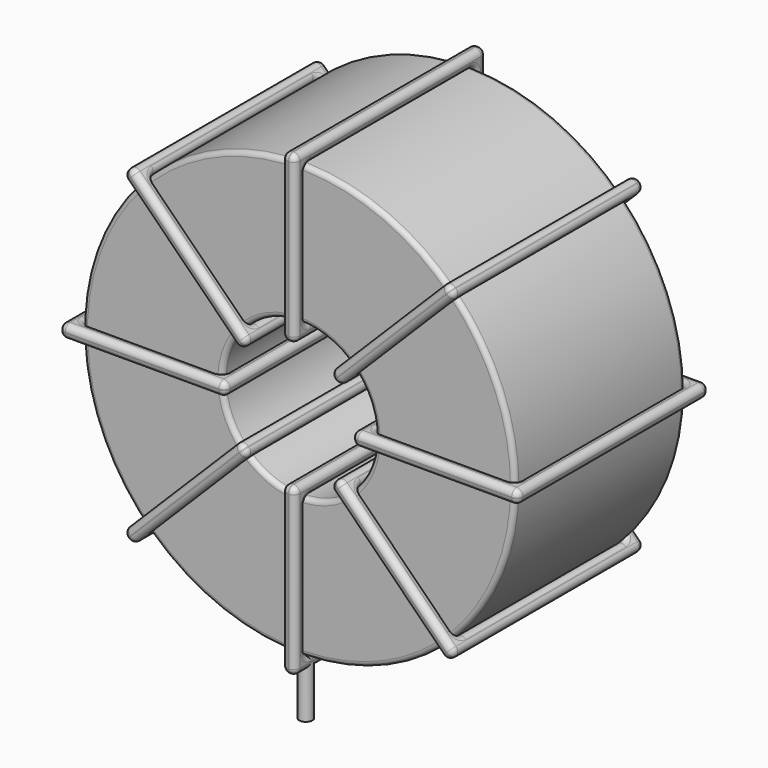
from build123d import *

# Parameters (mm, degrees)
SKETCH001_R       = 0.7
PAD001_DEPTH      = 1.4
PAD001_DEPTH_BACK = 4.9
SKETCH_R          = 23
SKETCH_R_2        = 8.133333
PAD_DEPTH         = 11.3
FILLET_R          = 0.5
SKETCH003_W       = 17.666667
SKETCH003_H       = 25.4
SKETCH003_W_2     = 14.866667
SKETCH003_H_2     = 22.6
PAD002_DEPTH      = 0.7
FILLET001_R       = 0.658
SKETCH004_W       = 17.666667
SKETCH004_H       = 25.4
SKETCH004_W_2     = 14.866667
SKETCH004_H_2     = 22.6
PAD003_DEPTH      = 0.7
FILLET002_R       = 0.658
SKETCH005_W       = 17.666667
SKETCH005_H       = 25.4
SKETCH005_W_2     = 14.866667
SKETCH005_H_2     = 22.6
PAD004_DEPTH      = 0.7
FILLET003_R       = 0.658
SKETCH006_W       = 17.666667
SKETCH006_H       = 25.4
SKETCH006_W_2     = 14.866667
SKETCH006_H_2     = 22.6
PAD005_DEPTH      = 0.7
FILLET004_R       = 0.658


with BuildPart() as pad001:
    # Sketch001 → Pad001 (new body, two sides)
    with BuildSketch(Plane.XY.offset(1.9)) as pad001_sk:
        Circle(SKETCH001_R)
        with Locations((0, -20.8)):
            Circle(SKETCH001_R)
    extrude(amount=PAD001_DEPTH)
    extrude(pad001_sk.sketch, amount=-PAD001_DEPTH_BACK)


with BuildPart() as fillet_body:
    # Sketch → Pad (new body, symmetric)
    with BuildSketch(Plane.XZ.offset(10.4)):
        with Locations((0, 26.3)):
            Circle(SKETCH_R)
        with Locations((0, 26.3)):
            Circle(SKETCH_R_2, mode=Mode.SUBTRACT)
    extrude(amount=PAD_DEPTH, both=True)

    # Fillet
    fillet_edges = [fillet_body.edges().sort_by_distance(p)[0] for p in [
        (-8.133333, -21.7, 26.3),
        (-23, -21.7, 26.3),
        (-23, 0.9, 26.3),
    ]]
    fillet(fillet_edges, radius=FILLET_R)


with BuildPart() as fillet001:
    # Sketch003 → Pad002 (new body, symmetric)
    with BuildSketch(Plane(origin=(0, 2.3, 26.3), x_dir=(1, 0, 0), z_dir=(0, 0, -1))):
        with Locations((-15.566667, 12.7)):
            Rectangle(SKETCH003_W, SKETCH003_H)
        with Locations((-15.566667, 12.7)):
            Rectangle(SKETCH003_W_2, SKETCH003_H_2, mode=Mode.SUBTRACT)
        with Locations((15.566667, 12.7)):
            Rectangle(SKETCH003_W, SKETCH003_H)
        with Locations((15.566667, 12.7)):
            Rectangle(SKETCH003_W_2, SKETCH003_H_2, mode=Mode.SUBTRACT)
    extrude(amount=PAD002_DEPTH, both=True)

    # Fillet001
    fillet001_edges = [fillet001.edges().sort_by_distance(p)[0] for p in [
        (-8.133333, -21.7, 26.3),
        (-8.133333, 0.9, 26.3),
        (-8.133333, -10.4, 27),
        (-8.133333, -10.4, 25.6),
        (-24.4, -23.1, 26.3),
        (-6.733333, -23.1, 26.3),
        (-15.566667, -23.1, 27),
        (-15.566667, -23.1, 25.6),
        (-6.733333, 2.3, 26.3),
        (-6.733333, -10.4, 27),
        (-6.733333, -10.4, 25.6),
        (8.133333, -21.7, 26.3),
        (23, -21.7, 26.3),
        (15.566667, -21.7, 27),
        (15.566667, -21.7, 25.6),
        (23, 0.9, 26.3),
        (23, -10.4, 27),
        (23, -10.4, 25.6),
        (6.733333, -23.1, 26.3),
        (24.4, -23.1, 26.3),
        (15.566667, -23.1, 27),
        (15.566667, -23.1, 25.6),
        (24.4, 2.3, 26.3),
        (24.4, -10.4, 27),
        (24.4, -10.4, 25.6),
        (-23, -21.7, 26.3),
        (-15.566667, -21.7, 27),
        (-15.566667, -21.7, 25.6),
        (8.133333, 0.9, 26.3),
        (8.133333, -10.4, 27),
        (8.133333, -10.4, 25.6),
        (15.566667, 0.9, 27),
        (15.566667, 0.9, 25.6),
        (6.733333, 2.3, 26.3),
        (15.566667, 2.3, 27),
        (15.566667, 2.3, 25.6),
        (6.733333, -10.4, 27),
        (6.733333, -10.4, 25.6),
        (-24.4, 2.3, 26.3),
        (-15.566667, 2.3, 27),
        (-15.566667, 2.3, 25.6),
        (-24.4, -10.4, 27),
        (-24.4, -10.4, 25.6),
        (-23, 0.9, 26.3),
        (-23, -10.4, 27),
        (-23, -10.4, 25.6),
        (-15.566667, 0.9, 27),
        (-15.566667, 0.9, 25.6),
    ]]
    fillet(fillet001_edges, radius=FILLET001_R)


with BuildPart() as fillet002:
    # Sketch004 → Pad003 (new body, symmetric)
    with BuildSketch(Plane(origin=(0, 2.3, 26.3), x_dir=(0.707108, 0, 0.707106), z_dir=(0.707106, 0, -0.707108))):
        with Locations((-15.566667, 12.7)):
            Rectangle(SKETCH004_W, SKETCH004_H)
        with Locations((-15.566667, 12.7)):
            Rectangle(SKETCH004_W_2, SKETCH004_H_2, mode=Mode.SUBTRACT)
        with Locations((15.566667, 12.7)):
            Rectangle(SKETCH004_W, SKETCH004_H)
        with Locations((15.566667, 12.7)):
            Rectangle(SKETCH004_W_2, SKETCH004_H_2, mode=Mode.SUBTRACT)
    extrude(amount=PAD003_DEPTH, both=True)

    # Fillet002
    fillet002_edges = [fillet002.edges().sort_by_distance(p)[0] for p in [
        (-5.751142, -21.7, 20.548871),
        (-5.751142, 0.9, 20.548871),
        (-6.246116, -10.4, 21.043847),
        (-5.256168, -10.4, 20.053896),
        (-17.253425, -23.1, 9.046614),
        (-4.761191, -23.1, 21.53882),
        (-11.502282, -23.1, 15.787692),
        (-10.512334, -23.1, 14.797742),
        (-4.761191, 2.3, 21.53882),
        (-5.256165, -10.4, 22.033795),
        (-4.266217, -10.4, 21.043845),
        (5.751142, -21.7, 32.051129),
        (16.263475, -21.7, 42.563437),
        (10.512334, -21.7, 37.802258),
        (11.502282, -21.7, 36.812308),
        (16.263475, 0.9, 42.563437),
        (15.768501, -10.4, 43.058412),
        (16.758449, -10.4, 42.068462),
        (4.761191, 2.3, 31.06118),
        (4.761191, -23.1, 31.06118),
        (4.266217, -10.4, 31.556155),
        (5.256165, -10.4, 30.566205),
        (17.253425, 2.3, 43.553386),
        (10.512334, 2.3, 37.802258),
        (11.502282, 2.3, 36.812308),
        (-16.263475, -21.7, 10.036563),
        (-11.502282, -21.7, 15.787692),
        (-10.512334, -21.7, 14.797742),
        (5.751142, 0.9, 32.051129),
        (5.256168, -10.4, 32.546104),
        (6.246116, -10.4, 31.556153),
        (10.512334, 0.9, 37.802258),
        (11.502282, 0.9, 36.812308),
        (17.253425, -23.1, 43.553386),
        (16.758451, -10.4, 44.048361),
        (17.7484, -10.4, 43.05841),
        (10.512334, -23.1, 37.802258),
        (11.502282, -23.1, 36.812308),
        (-17.253425, 2.3, 9.046614),
        (-11.502282, 2.3, 15.787692),
        (-10.512334, 2.3, 14.797742),
        (-17.7484, -10.4, 9.54159),
        (-16.758451, -10.4, 8.551639),
        (-16.263475, 0.9, 10.036563),
        (-16.758449, -10.4, 10.531538),
        (-15.768501, -10.4, 9.541588),
        (-11.502282, 0.9, 15.787692),
        (-10.512334, 0.9, 14.797742),
    ]]
    fillet(fillet002_edges, radius=FILLET002_R)


with BuildPart() as fillet003:
    # Sketch005 → Pad004 (new body, symmetric)
    with BuildSketch(Plane(origin=(0, 2.3, 26.3), x_dir=(0.707108, 0, -0.707106), z_dir=(-0.707106, 0, -0.707108))):
        with Locations((-15.566667, 12.7)):
            Rectangle(SKETCH005_W, SKETCH005_H)
        with Locations((-15.566667, 12.7)):
            Rectangle(SKETCH005_W_2, SKETCH005_H_2, mode=Mode.SUBTRACT)
        with Locations((15.566667, 12.7)):
            Rectangle(SKETCH005_W, SKETCH005_H)
        with Locations((15.566667, 12.7)):
            Rectangle(SKETCH005_W_2, SKETCH005_H_2, mode=Mode.SUBTRACT)
    extrude(amount=PAD004_DEPTH, both=True)

    # Fillet003
    fillet003_edges = [fillet003.edges().sort_by_distance(p)[0] for p in [
        (-16.263475, -21.7, 42.563437),
        (-5.751142, 0.9, 32.051129),
        (-10.512334, 0.9, 37.802258),
        (-11.502282, 0.9, 36.812308),
        (-17.253425, -23.1, 43.553386),
        (-4.761191, -23.1, 31.06118),
        (-10.512334, -23.1, 37.802258),
        (-11.502282, -23.1, 36.812308),
        (-4.761191, 2.3, 31.06118),
        (-4.266217, -10.4, 31.556155),
        (-5.256165, -10.4, 30.566205),
        (5.751142, -21.7, 20.548871),
        (16.263475, -21.7, 10.036563),
        (11.502282, -21.7, 15.787692),
        (10.512334, -21.7, 14.797742),
        (16.263475, 0.9, 10.036563),
        (16.758449, -10.4, 10.531538),
        (15.768501, -10.4, 9.541588),
        (4.761191, -23.1, 21.53882),
        (17.253425, -23.1, 9.046614),
        (11.502282, -23.1, 15.787692),
        (10.512334, -23.1, 14.797742),
        (17.253425, 2.3, 9.046614),
        (17.7484, -10.4, 9.54159),
        (16.758451, -10.4, 8.551639),
        (-16.263475, 0.9, 42.563437),
        (-15.768501, -10.4, 43.058412),
        (-16.758449, -10.4, 42.068462),
        (5.751142, 0.9, 20.548871),
        (6.246116, -10.4, 21.043847),
        (5.256168, -10.4, 20.053896),
        (11.502282, 0.9, 15.787692),
        (10.512334, 0.9, 14.797742),
        (4.761191, 2.3, 21.53882),
        (11.502282, 2.3, 15.787692),
        (10.512334, 2.3, 14.797742),
        (5.256165, -10.4, 22.033795),
        (4.266217, -10.4, 21.043845),
        (-17.253425, 2.3, 43.553386),
        (-10.512334, 2.3, 37.802258),
        (-11.502282, 2.3, 36.812308),
        (-16.758451, -10.4, 44.048361),
        (-17.7484, -10.4, 43.05841),
        (-5.751142, -21.7, 32.051129),
        (-10.512334, -21.7, 37.802258),
        (-11.502282, -21.7, 36.812308),
        (-5.256168, -10.4, 32.546104),
        (-6.246116, -10.4, 31.556153),
    ]]
    fillet(fillet003_edges, radius=FILLET003_R)


with BuildPart() as fillet004:
    # Sketch006 → Pad005 (new body, symmetric)
    with BuildSketch(Plane(origin=(0, 2.3, 26.3), x_dir=(0, 0, 1), z_dir=(1, 0, 0))):
        with Locations((-15.566667, 12.7)):
            Rectangle(SKETCH006_W, SKETCH006_H)
        with Locations((-15.566667, 12.7)):
            Rectangle(SKETCH006_W_2, SKETCH006_H_2, mode=Mode.SUBTRACT)
        with Locations((15.566667, 12.7)):
            Rectangle(SKETCH006_W, SKETCH006_H)
        with Locations((15.566667, 12.7)):
            Rectangle(SKETCH006_W_2, SKETCH006_H_2, mode=Mode.SUBTRACT)
    extrude(amount=PAD005_DEPTH, both=True)

    # Fillet004
    fillet004_edges = [fillet004.edges().sort_by_distance(p)[0] for p in [
        (0, -21.7, 18.166667),
        (0, 0.9, 18.166667),
        (-0.7, -10.4, 18.166667),
        (0.7, -10.4, 18.166667),
        (0, -23.1, 1.9),
        (0, -23.1, 19.566667),
        (-0.7, -23.1, 10.733333),
        (0.7, -23.1, 10.733333),
        (0, 2.3, 19.566667),
        (-0.7, -10.4, 19.566667),
        (0.7, -10.4, 19.566667),
        (0, -21.7, 34.433333),
        (0, -21.7, 49.3),
        (-0.7, -21.7, 41.866667),
        (0.7, -21.7, 41.866667),
        (0, 0.9, 49.3),
        (-0.7, -10.4, 49.3),
        (0.7, -10.4, 49.3),
        (0, -23.1, 33.033333),
        (0, -23.1, 50.7),
        (-0.7, -23.1, 41.866667),
        (0.7, -23.1, 41.866667),
        (0, 2.3, 50.7),
        (-0.7, -10.4, 50.7),
        (0.7, -10.4, 50.7),
        (0, -21.7, 3.3),
        (-0.7, -21.7, 10.733333),
        (0.7, -21.7, 10.733333),
        (0, 0.9, 34.433333),
        (-0.7, -10.4, 34.433333),
        (0.7, -10.4, 34.433333),
        (-0.7, 0.9, 41.866667),
        (0.7, 0.9, 41.866667),
        (0, 2.3, 33.033333),
        (-0.7, 2.3, 41.866667),
        (0.7, 2.3, 41.866667),
        (-0.7, -10.4, 33.033333),
        (0.7, -10.4, 33.033333),
        (0, 2.3, 1.9),
        (-0.7, 2.3, 10.733333),
        (0.7, 2.3, 10.733333),
        (-0.7, -10.4, 1.9),
        (0.7, -10.4, 1.9),
        (0, 0.9, 3.3),
        (-0.7, -10.4, 3.3),
        (0.7, -10.4, 3.3),
        (-0.7, 0.9, 10.733333),
        (0.7, 0.9, 10.733333),
    ]]
    fillet(fillet004_edges, radius=FILLET004_R)


solid = Compound([pad001.part, fillet_body.part, fillet001.part, fillet002.part, fillet003.part, fillet004.part])
